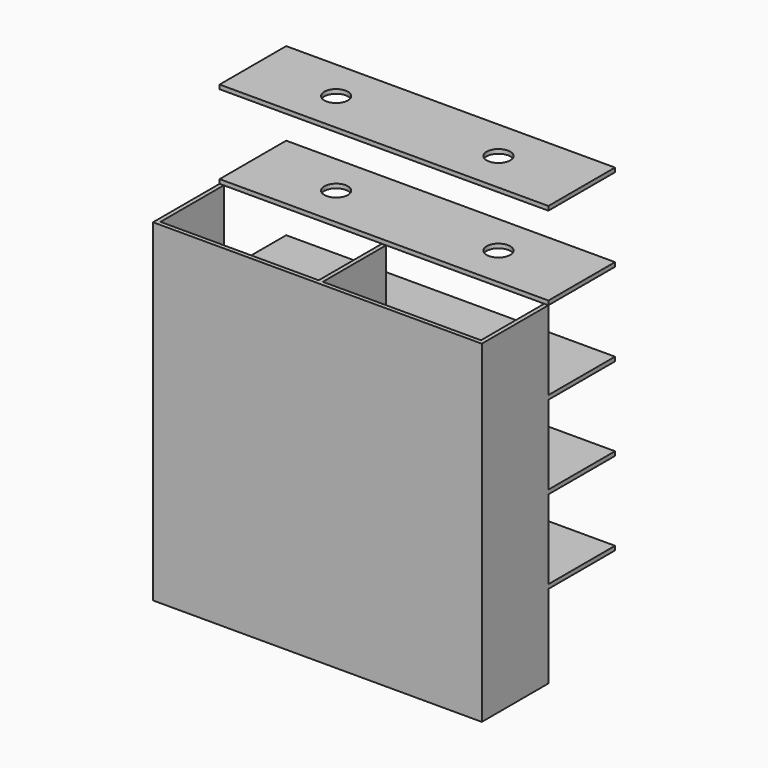
from build123d import *

# Parameters (mm, degrees)
EXTRUDE001_DEPTH = 10
ARRAY001_X_COUNT = 2
ARRAY001_X_PITCH = 19.5
ARRAY001_Z_COUNT = 4
ARRAY001_Z_PITCH = 10
SKETCH_W         = 20
SKETCH_H         = 10
SKETCH_R         = 1.418933
EXTRUDE_DEPTH    = 0.5
ARRAY_X_COUNT    = 2
ARRAY_X_PITCH    = 19.5
ARRAY_Z_COUNT    = 5
ARRAY_Z_PITCH    = 10


with BuildPart() as array001:
    # Sketch001 (on Face6 of Extrude) → Extrude001 (new body)
    with BuildSketch(Plane(origin=(0, 0, 0), x_dir=(1, 0, 0), z_dir=(0, 0, -1))):
        Polygon((0, 0), (0.5, 0), (0.5, 9.5), (19.5, 9.5), (19.5, 0), (20, 0), (20, 10), (0, 10), align=None)
    extrude(amount=EXTRUDE001_DEPTH)

    # Array001 X: Array001 ×2


with BuildPart() as array001_1:
    add(array001.part)
    with Locations(*[(i * ARRAY001_X_PITCH, 0, 0) for i in range(1, ARRAY001_X_COUNT)]):
        add(array001.part)

    # Array001 Z: Array001 ×4


with BuildPart() as array001_2:
    add(array001_1.part)
    with Locations(*[(0, 0, i * ARRAY001_Z_PITCH) for i in range(1, ARRAY001_Z_COUNT)]):
        add(array001_1.part)


with BuildPart() as fusion:
    # Sketch → Extrude (new body)
    with BuildSketch(Plane.XY):
        with Locations((10, 5)):
            Rectangle(SKETCH_W, SKETCH_H)
        with Locations((10, 5)):
            Circle(SKETCH_R, mode=Mode.SUBTRACT)
    extrude(amount=EXTRUDE_DEPTH)

    # Array X: Fusion ×2


with BuildPart() as fusion_1:
    add(fusion.part)
    with Locations(*[(i * ARRAY_X_PITCH, 0, 0) for i in range(1, ARRAY_X_COUNT)]):
        add(fusion.part)

    # Array Z: Fusion ×5


with BuildPart() as fusion_2:
    add(fusion_1.part)
    with Locations(*[(0, 0, i * ARRAY_Z_PITCH) for i in range(1, ARRAY_Z_COUNT)]):
        add(fusion_1.part)

    # Fusion: union Array001
    add(array001_2.part)


solid = fusion_2.part
